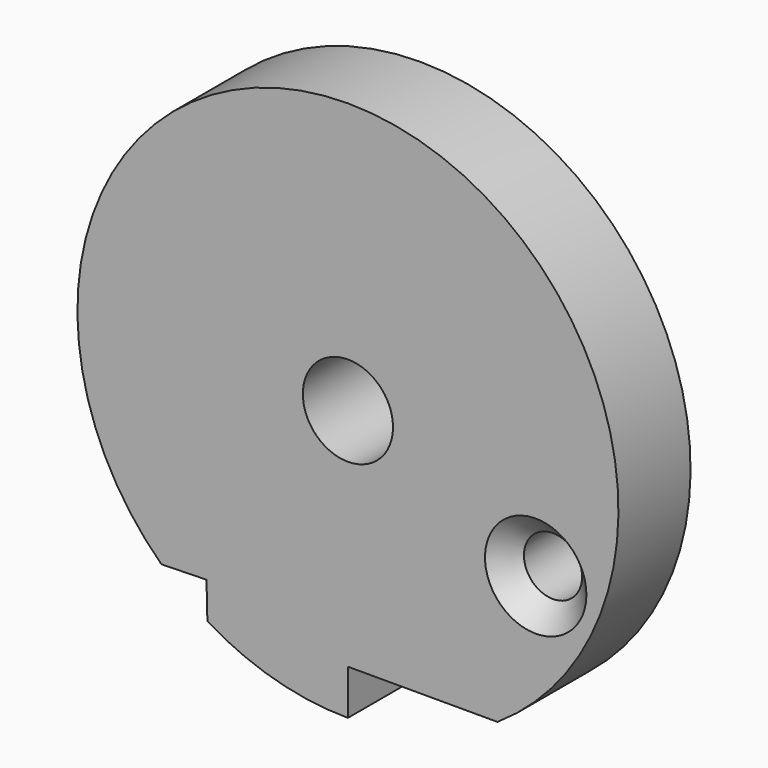
from build123d import *

# Parameters (mm, degrees)
F0_R     = 1.02362
F0_R_2   = 1.5875
F1_DEPTH = 1.5875
F2_SIZE2 = 0.762
F2_SIZE  = 0.762


with BuildPart() as f1:
    # F0 (on Front) → F1 (new body, symmetric)
    with BuildSketch(Plane.XZ):
        with BuildLine():
            Line((-4.501804, -1.775407), (-4.471419, -3.052185))
            ThreePointArc((-4.471419, -3.052185), (-2.092182, -4.085642), (0.47765, -4.438859))
            Line((0.47765, -4.438859), (0.47765, -2.851359))
            Line((0.47765, -2.851359), (5.742792, -2.851359))
            ThreePointArc((5.742792, -2.851359), (1.310194, 14.574686), (-6.089304, -1.813188))
            Line((-6.089304, -1.813188), (-4.501804, -1.775407))
        make_face()
        with Locations((7.089037, 2.107543)):
            Circle(F0_R, mode=Mode.SUBTRACT)
        with Locations((0.47765, 5.086141)):
            Circle(F0_R_2, mode=Mode.SUBTRACT)
    extrude(amount=F1_DEPTH, both=True)

    # F2
    f2_edges = [f1.edges().sort_by_distance(p)[0] for p in [
        (6.065417, -1.5875, 2.107543),
    ]]
    chamfer(f2_edges, length=F2_SIZE, length2=F2_SIZE2)


solid = f1.part
